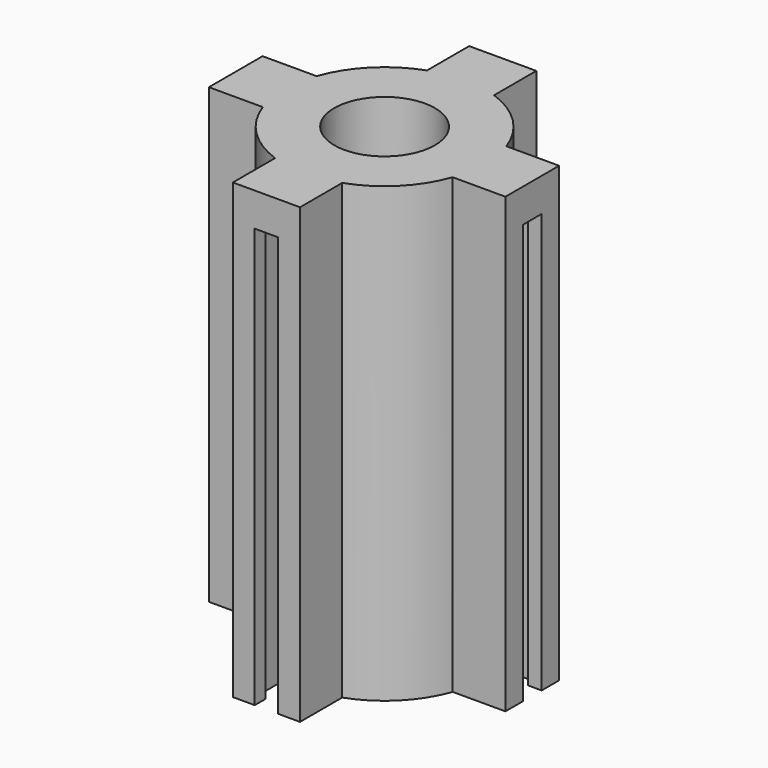
from build123d import *

# Parameters (mm, degrees)
F0_R     = 3
F1_DEPTH = 25
F2_R     = 3
F3_DEPTH = 2


with BuildPart() as f1:
    # F0 (on Top) → F1 (new body)
    with BuildSketch(Plane.XY):
        with BuildLine():
            Line((-8.070223, 1.2), (-5.878775, 1.2))
            ThreePointArc((-5.878775, 1.2), (-6, 0), (-5.878775, -1.2))
            Line((-5.878775, -1.2), (-8, -1.2))
            Line((-8, -1.2), (-8.070223, -1.2))
            Line((-8.070223, -1.2), (-8.070223, -0.7))
            Line((-8.070223, -0.7), (-8.870223, -0.7))
            Line((-8.870223, -0.7), (-8.870223, -2))
            Line((-8.870223, -2), (-8.070223, -2))
            Line((-8.070223, -2), (-8, -2))
            Line((-8, -2), (-5.656854, -2))
            ThreePointArc((-5.656854, -2), (-4.242641, -4.242641), (-2, -5.656854))
            Line((-2, -5.656854), (-2, -8))
            Line((-2, -8), (-2, -8.8))
            Line((-2, -8.8), (-0.7, -8.8))
            Line((-0.7, -8.8), (-0.7, -8))
            Line((-0.7, -8), (-1.2, -8))
            Line((-1.2, -8), (-1.2, -5.878775))
            ThreePointArc((-1.2, -5.878775), (0, -6), (1.2, -5.878775))
            Line((1.2, -5.878775), (1.2, -8))
            Line((1.2, -8), (0.7, -8))
            Line((0.7, -8), (0.7, -8.8))
            Line((0.7, -8.8), (2, -8.8))
            Line((2, -8.8), (2, -8))
            Line((2, -8), (2, -5.656854))
            ThreePointArc((2, -5.656854), (4.242641, -4.242641), (5.656854, -2))
            Line((5.656854, -2), (8, -2))
            Line((8, -2), (8.8, -2))
            Line((8.8, -2), (8.8, -0.7))
            Line((8.8, -0.7), (8, -0.7))
            Line((8, -0.7), (8, -1.2))
            Line((8, -1.2), (5.878775, -1.2))
            ThreePointArc((5.878775, -1.2), (6, 0), (5.878775, 1.2))
            Line((5.878775, 1.2), (8, 1.2))
            Line((8, 1.2), (8, 0.7))
            Line((8, 0.7), (8.8, 0.7))
            Line((8.8, 0.7), (8.8, 2))
            Line((8.8, 2), (8, 2))
            Line((8, 2), (5.656854, 2))
            ThreePointArc((5.656854, 2), (4.242641, 4.242641), (2, 5.656854))
            Line((2, 5.656854), (2, 8))
            Line((2, 8), (2, 8.8))
            Line((2, 8.8), (0.7, 8.8))
            Line((0.7, 8.8), (0.7, 8))
            Line((0.7, 8), (1.2, 8))
            Line((1.2, 8), (1.2, 5.878775))
            ThreePointArc((1.2, 5.878775), (0, 6), (-1.2, 5.878775))
            Line((-1.2, 5.878775), (-1.2, 8))
            Line((-1.2, 8), (-0.7, 8))
            Line((-0.7, 8), (-0.7, 8.8))
            Line((-0.7, 8.8), (-2, 8.8))
            Line((-2, 8.8), (-2, 8))
            Line((-2, 8), (-2, 5.656854))
            ThreePointArc((-2, 5.656854), (-4.242641, 4.242641), (-5.656854, 2))
            Line((-5.656854, 2), (-8.070223, 2))
            Line((-8.070223, 2), (-8.870223, 2))
            Line((-8.870223, 2), (-8.870223, 0.7))
            Line((-8.870223, 0.7), (-8.070223, 0.7))
            Line((-8.070223, 0.7), (-8.070223, 1.2))
        make_face()
        Circle(F0_R, mode=Mode.SUBTRACT)
    extrude(amount=F1_DEPTH)

    # F2 (on face) → F3 (join)
    with BuildSketch(Plane.XY.offset(25)):
        with BuildLine():
            Line((-8.870223, -2), (-5.656854, -2))
            ThreePointArc((-5.656854, -2), (-4.242641, -4.242641), (-2, -5.656854))
            Line((-2, -5.656854), (-2, -8.8))
            Line((-2, -8.8), (2, -8.8))
            Line((2, -8.8), (2, -5.656854))
            ThreePointArc((2, -5.656854), (4.242641, -4.242641), (5.656854, -2))
            Line((5.656854, -2), (8.8, -2))
            Line((8.8, -2), (8.8, 2))
            Line((8.8, 2), (5.656854, 2))
            ThreePointArc((5.656854, 2), (4.242641, 4.242641), (2, 5.656854))
            Line((2, 5.656854), (2, 8.8))
            Line((2, 8.8), (-2, 8.8))
            Line((-2, 8.8), (-2, 5.656854))
            ThreePointArc((-2, 5.656854), (-4.242641, 4.242641), (-5.656854, 2))
            Line((-5.656854, 2), (-8.870223, 2))
            Line((-8.870223, 2), (-8.870223, -2))
        make_face()
        Circle(F2_R, mode=Mode.SUBTRACT)
    extrude(amount=F3_DEPTH)


solid = f1.part
